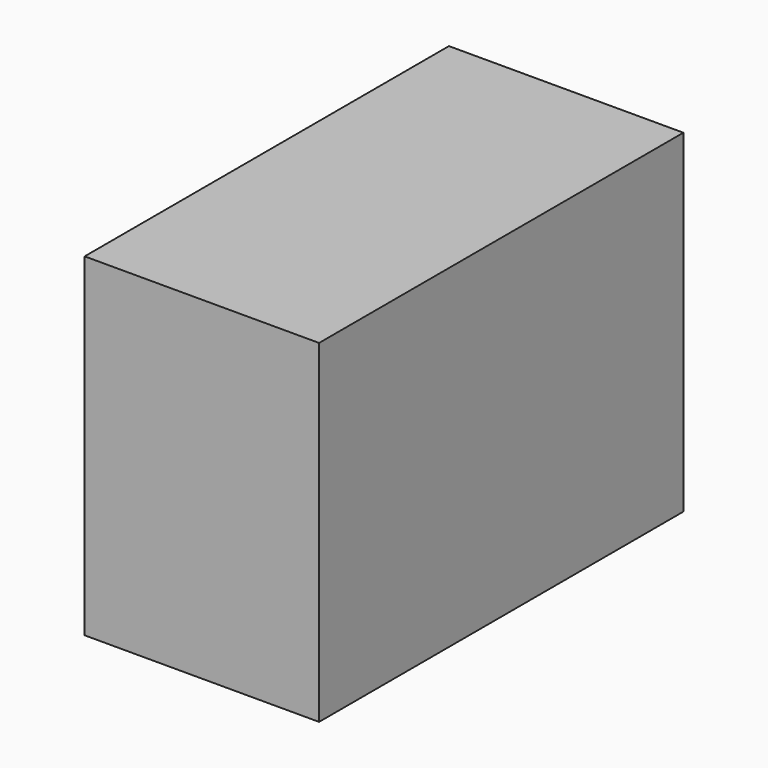
from build123d import *

# Parameters (mm, degrees)
SKETCH_W  = 26
SKETCH_H  = 50.5
PAD_DEPTH = 37


with BuildPart() as part:
    # Sketch → Pad (new body)
    with BuildSketch(Plane.XY):
        Rectangle(SKETCH_W, SKETCH_H)
    extrude(amount=PAD_DEPTH)


solid = part.part
